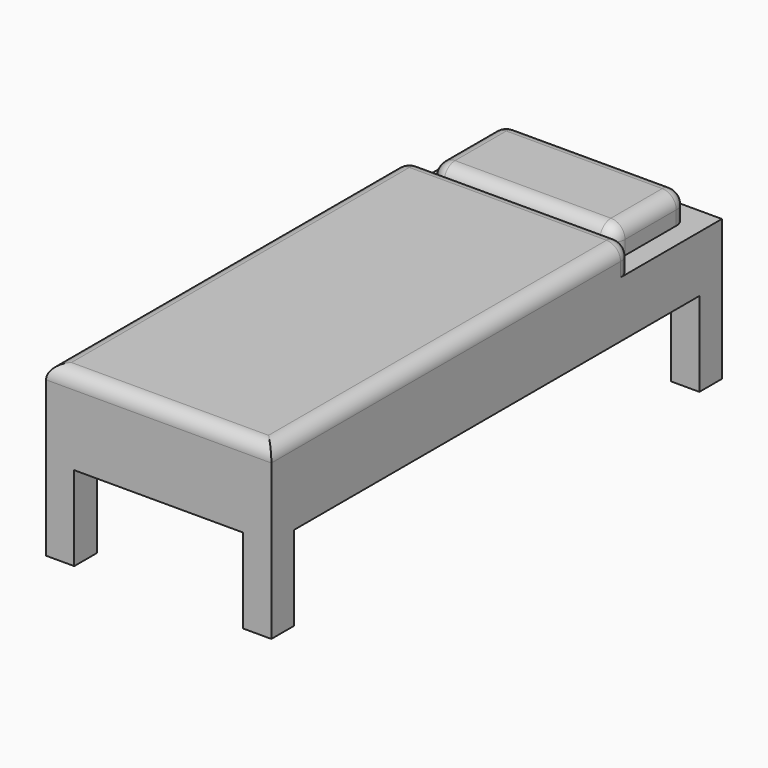
from build123d import *

# Parameters (mm, degrees)
F0_W     = 800
F0_H     = 2000
F1_DEPTH = 200
F2_W     = 100
F2_H     = 100
F3_DEPTH = 300
F4_W     = 800
F4_H     = 1600
F5_DEPTH = 100
F6_R     = 50
F7_W     = 653.6028981209
F7_H     = 327.4476051331
F8_DEPTH = 100
F9_R     = 50


with BuildPart() as f1:
    # F0 (on Top) → F1 (new body)
    with BuildSketch(Plane.XY):
        Rectangle(F0_W, F0_H)
    extrude(amount=F1_DEPTH)

    # F2 (on face) → F3 (join)
    with BuildSketch(Plane(origin=(0, 0, 0), x_dir=(1, 0, 0), z_dir=(0, 0, -1))):
        with Locations((350, 950)):
            Rectangle(F2_W, F2_H)
        with Locations((-350, 950)):
            Rectangle(F2_W, F2_H)
        with Locations((-350, -950)):
            Rectangle(F2_W, F2_H)
        with Locations((350, -950)):
            Rectangle(F2_W, F2_H)
    extrude(amount=F3_DEPTH)

    # F4 (on face) → F5 (join)
    with BuildSketch(Plane.XY.offset(200)):
        with Locations((0, -200)):
            Rectangle(F4_W, F4_H)
    extrude(amount=F5_DEPTH)

    # F6
    f6_edges = [f1.edges().sort_by_distance(p)[0] for p in [
        (400, -200, 300),
        (0, -1000, 300),
        (-400, -200, 300),
        (0, 600, 300),
        (400, 600, 250),
        (-400, 600, 250),
    ]]
    fillet(f6_edges, radius=F6_R)

    # F7 (on face) → F8 (join)
    with BuildSketch(Plane.XY.offset(200)):
        with Locations((0, 775)):
            Rectangle(F7_W, F7_H)
    extrude(amount=F8_DEPTH)

    # F9
    f9_edges = [f1.edges().sort_by_distance(p)[0] for p in [
        (326.801449, 775, 300),
        (326.801449, 938.723803, 250),
        (0, 938.723803, 300),
        (-326.801449, 938.723803, 250),
        (-326.801449, 775, 300),
        (-326.801449, 611.276197, 250),
        (0, 611.276197, 300),
        (326.801449, 611.276197, 250),
    ]]
    fillet(f9_edges, radius=F9_R)


solid = f1.part
